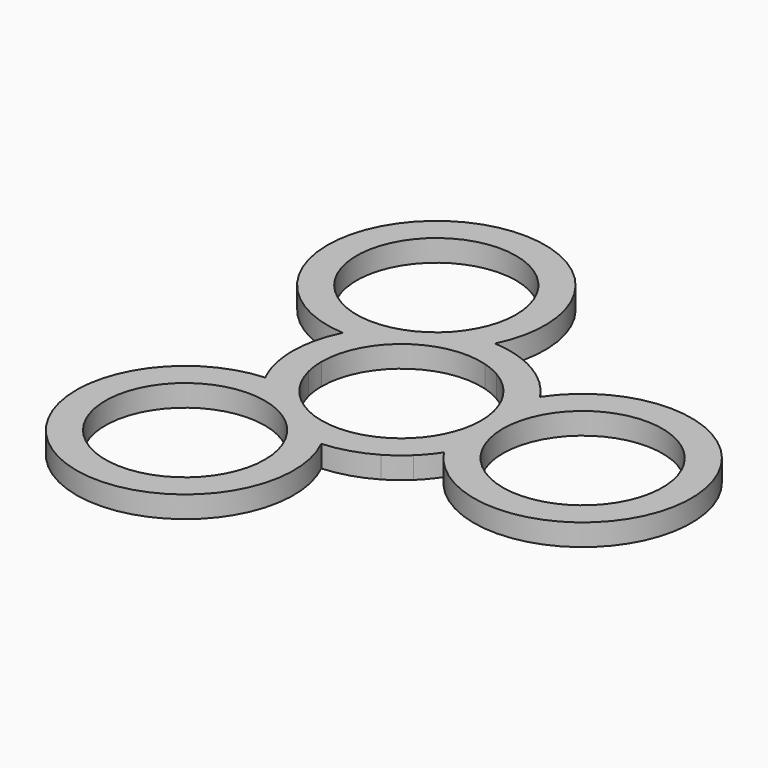
from build123d import *

# Parameters (mm, degrees)
F0_R     = 11
F1_DEPTH = 3


with BuildPart() as f1:
    # F0 (on Top) → F1 (new body)
    with BuildSketch(Plane.XY):
        with BuildLine():
            ThreePointArc((0.930703, -14.971099), (4.359901, -14.352396), (7.553815, -12.959162))
            ThreePointArc((7.553815, -12.959162), (9.025781, -11.980621), (10.37242, -10.835723))
            ThreePointArc((10.37242, -10.835723), (11.506741, -9.622625), (12.5, -8.291562))
            ThreePointArc((12.5, -8.291562), (40, 0), (12.5, 8.291562))
            ThreePointArc((12.5, 8.291562), (10.249589, 10.951983), (7.446056, 13.021377))
            ThreePointArc((7.446056, 13.021377), (5.862631, 13.806866), (4.197801, 14.400641))
            ThreePointArc((4.197801, 14.400641), (2.580067, 14.776443), (0.930703, 14.971099))
            ThreePointArc((0.930703, 14.971099), (-20, 34.641016), (-13.430703, 6.679537))
            ThreePointArc((-13.430703, 6.679537), (-14.60949, 3.400413), (-14.999871, -0.062215))
            ThreePointArc((-14.999871, -0.062215), (-14.888413, -1.826246), (-14.570222, -3.564918))
            ThreePointArc((-14.570222, -3.564918), (-14.086808, -5.153818), (-13.430703, -6.679537))
            ThreePointArc((-13.430703, -6.679537), (-20, -34.641016), (0.930703, -14.971099))
        make_face()
        with Locations((-12.5, -21.650635)):
            Circle(F0_R, mode=Mode.SUBTRACT)
        with BuildLine():
            ThreePointArc((7.606442, -7.946197), (6.618906, -8.785788), (5.539465, -9.503385))
            ThreePointArc((5.539465, -9.503385), (-4.299263, -10.125035), (-10.684829, -2.614273))
            ThreePointArc((-10.684829, -2.614273), (-10.918169, -1.339247), (-10.999905, -0.045624))
            ThreePointArc((-10.999905, -0.045624), (-6.618906, 8.785788), (3.078388, 10.56047))
            ThreePointArc((3.078388, 10.56047), (4.299263, 10.125035), (5.460441, 9.54901))
            ThreePointArc((5.460441, 9.54901), (9.514853, 5.519744), (11, 0))
            ThreePointArc((11, 0), (10.116097, -4.320251), (7.606442, -7.946197))
        make_face(mode=Mode.SUBTRACT)
        with BuildLine():
            ThreePointArc((36, 0), (25, -11), (14, 0))
            ThreePointArc((14, 0), (25, 11), (36, 0))
        make_face(mode=Mode.SUBTRACT)
        with Locations((-12.5, 21.650635)):
            Circle(F0_R, mode=Mode.SUBTRACT)
    extrude(amount=F1_DEPTH)


solid = f1.part
